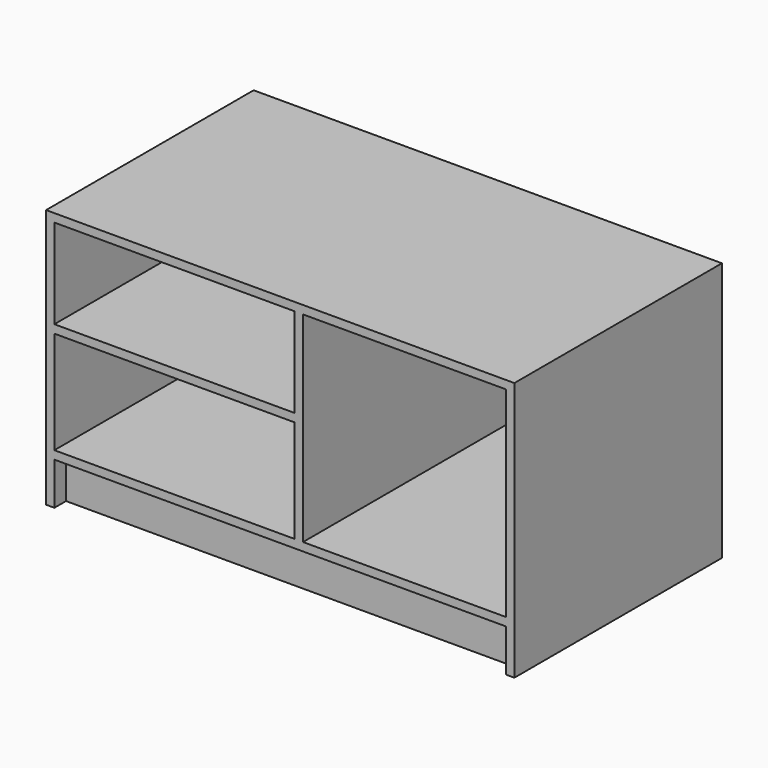
from build123d import *

# Parameters (mm, degrees)
F0_W      = 460.375
F0_H      = 15.875
F1_DEPTH  = 496.8875
F2_START  = -27.94
F0_W_2    = 865.1875
F0_H_2    = 81.28
F2_DEPTH  = 15.875
F3_START  = 437.1975
F2_FACE_W = 865.1875
F2_FACE_H = 81.28
F3_DEPTH  = 15.875
F4_START  = -495.3
F0_H_3    = 196.5325
F0_W_3    = 388.9375
F0_H_4    = 383.8575
F0_H_5    = 171.45
F4_DEPTH  = 1.5875


with BuildPart() as f1:
    # F0 (on Front) → F1 (new body)
    with BuildSketch(Plane.XZ):
        Polygon((881.0625, 0), (15.875, 0), (15.875, -15.875), (476.25, -15.875), (492.125, -15.875), (881.0625, -15.875), align=None)
        Polygon((896.9375, 0), (881.0625, 0), (881.0625, -15.875), (881.0625, -399.7325), (881.0625, -415.6075), (881.0625, -496.8875), (896.9375, -496.8875), align=None)
        Polygon((15.875, 0), (0, 0), (0, -496.8875), (15.875, -496.8875), (15.875, -415.6075), (15.875, -399.7325), (15.875, -203.2), (15.875, -187.325), (15.875, -15.875), align=None)
        with Locations((246.0625, -195.2625)):
            Rectangle(F0_W, F0_H)
        Polygon((492.125, -15.875), (476.25, -15.875), (476.25, -187.325), (476.25, -203.2), (476.25, -399.7325), (492.125, -399.7325), align=None)
        Polygon((15.875, -399.7325), (15.875, -415.6075), (881.0625, -415.6075), (881.0625, -399.7325), (492.125, -399.7325), (476.25, -399.7325), align=None)
    extrude(amount=-F1_DEPTH)

    # F0 (on Front) → F2 (join)
    with BuildSketch(Plane.XZ.offset(F2_START)):
        with Locations((448.46875, -456.2475)):
            Rectangle(F0_W_2, F0_H_2)
    extrude(amount=-F2_DEPTH)

    # F2_face (on face) → F3 (join)
    with BuildSketch(Plane(origin=(448.46875, 43.815, -456.2475), x_dir=(1, 0, 0), z_dir=(0, 1, 0)).offset(F3_START)):
        Rectangle(F2_FACE_W, F2_FACE_H)
    extrude(amount=F3_DEPTH)

    # F0 (on Front) → F4 (join)
    with BuildSketch(Plane.XZ.offset(F4_START)):
        with Locations((448.46875, -456.2475)):
            Rectangle(F0_W_2, F0_H_2)
        Polygon((15.875, -399.7325), (15.875, -415.6075), (881.0625, -415.6075), (881.0625, -399.7325), (492.125, -399.7325), (476.25, -399.7325), align=None)
        with Locations((246.0625, -301.46625)):
            Rectangle(F0_W, F0_H_3)
        with Locations((686.59375, -207.80375)):
            Rectangle(F0_W_3, F0_H_4)
        with Locations((246.0625, -195.2625)):
            Rectangle(F0_W, F0_H)
        Polygon((492.125, -15.875), (476.25, -15.875), (476.25, -187.325), (476.25, -203.2), (476.25, -399.7325), (492.125, -399.7325), align=None)
        with Locations((246.0625, -101.6)):
            Rectangle(F0_W, F0_H_5)
        Polygon((881.0625, 0), (15.875, 0), (15.875, -15.875), (476.25, -15.875), (492.125, -15.875), (881.0625, -15.875), align=None)
        Polygon((896.9375, 0), (881.0625, 0), (881.0625, -15.875), (881.0625, -399.7325), (881.0625, -415.6075), (881.0625, -496.8875), (896.9375, -496.8875), align=None)
        Polygon((15.875, 0), (0, 0), (0, -496.8875), (15.875, -496.8875), (15.875, -415.6075), (15.875, -399.7325), (15.875, -203.2), (15.875, -187.325), (15.875, -15.875), align=None)
    extrude(amount=-F4_DEPTH)


solid = f1.part
